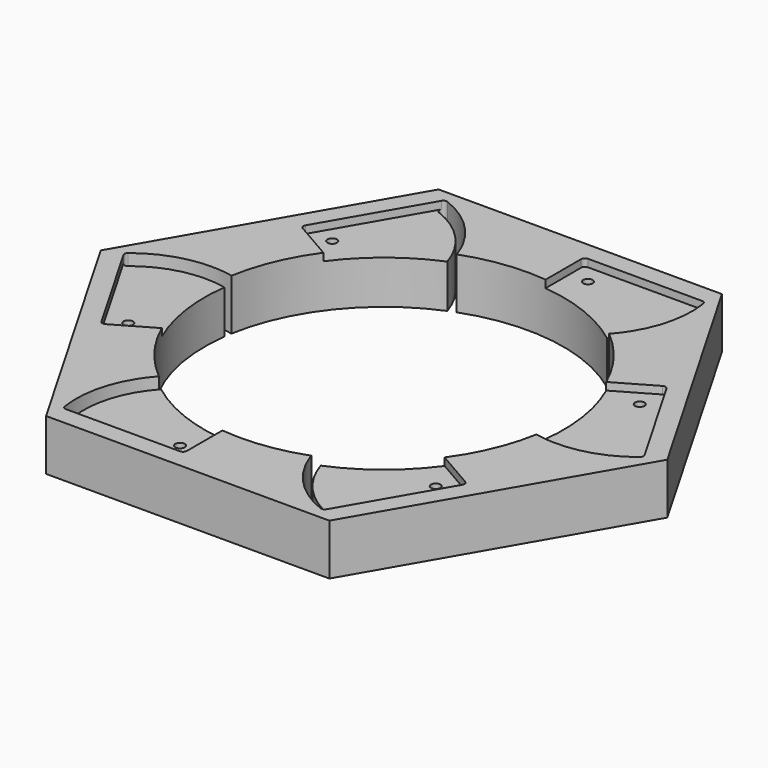
from build123d import *

# Parameters (mm, degrees)
F0_R          = 95
F1_DEPTH      = 25
F1_DEPTH_BACK = 2
F4_DEPTH      = 25
F4_DEPTH_BACK = 2
F5_COUNT      = 6
F8_DEPTH      = 10
F8_DEPTH_BACK = 35
F9_COUNT      = 6
F11_D         = 5
F11_DEPTH     = 13
F11_START     = 2
F11_TIP       = 1.5021515476


with BuildPart() as f1:
    # F0 (on Top) → F1 (new body, two sides)
    with BuildSketch(Plane.XY) as f1_sk:
        Polygon((75, 129.9038105677), (-75, 129.9038105677), (-150, 0), (-75, -129.9038105677), (75, -129.9038105677), (150, 0), align=None)
        Circle(F0_R, mode=Mode.SUBTRACT)
    extrude(amount=-F1_DEPTH)
    extrude(f1_sk.sketch, amount=F1_DEPTH_BACK)


with BuildPart() as f4:
    # F2 (on Top) → F4 (new body, two sides)
    with BuildSketch(Plane.XY) as f4_sk:
        with BuildLine():
            Line((-67.7266746593, 122.6939584625), (-97.9230484541, 70.3923048454))
            ThreePointArc((-97.9230484541, 70.3923048454), (-98.1228492991, 68.8746667552), (-97.1909976466, 67.6602540378))
            Line((-97.1909976466, 67.6602540378), (-68.1009575861, 50.8651115782))
            ThreePointArc((-68.1009575861, 50.8651115782), (-51.4015287339, 67.6969928713), (-30.7025049427, 79.2613158498))
            ThreePointArc((-30.7025049427, 79.2613158498), (-31.770388613, 85.1096644737), (-33.4632679534, 90.8085868892))
            ThreePointArc((-33.4632679534, 90.8085868892), (-34.9064435535, 94.4392315422), (-36.6037204033, 97.9582637535))
            ThreePointArc((-36.6037204033, 97.9582637535), (-48.6270197595, 113.3426973797), (-65.2675230757, 123.5571075336))
            ThreePointArc((-65.2675230757, 123.5571075336), (-66.656996648, 123.5810891624), (-67.7266746593, 122.6939584625))
        make_face()
    extrude(amount=F4_DEPTH)
    extrude(f4_sk.sketch, amount=-F4_DEPTH_BACK)


with BuildPart() as f5_1:
    # F5: instance of F4
    add(f4.part.rotate(Axis((0, 0, -0.1854561269), (0, 0, 1)), 1 * 360 / F5_COUNT))


with BuildPart() as f5_2:
    # F5: instance of F4
    add(f4.part.rotate(Axis((0, 0, -0.1854561269), (0, 0, 1)), 2 * 360 / F5_COUNT))


with BuildPart() as f5_3:
    # F5: instance of F4
    add(f4.part.rotate(Axis((0, 0, -0.1854561269), (0, 0, 1)), 3 * 360 / F5_COUNT))


with BuildPart() as f5_4:
    # F5: instance of F4
    add(f4.part.rotate(Axis((0, 0, -0.1854561269), (0, 0, 1)), 4 * 360 / F5_COUNT))


with BuildPart() as f5_5:
    # F5: instance of F4
    add(f4.part.rotate(Axis((0, 0, -0.1854561269), (0, 0, 1)), 5 * 360 / F5_COUNT))


with BuildPart() as f1_1:
    add(f1.part)

    # F6: cut F5_1, F4, F5_5, F5_4, F5_3, F5_2
    add(f5_1.part, mode=Mode.SUBTRACT)
    add(f4.part, mode=Mode.SUBTRACT)
    add(f5_5.part, mode=Mode.SUBTRACT)
    add(f5_4.part, mode=Mode.SUBTRACT)
    add(f5_3.part, mode=Mode.SUBTRACT)
    add(f5_2.part, mode=Mode.SUBTRACT)


with BuildPart() as f8:
    # F7 (on face) → F8 (new body, two sides)
    with BuildSketch(Plane.XY) as f8_sk:
        with BuildLine():
            ThreePointArc((-66.7217246277, 119.8308093913), (-44.7195832857, 103.2599332678), (-34.5435296861, 77.6643068393))
            ThreePointArc((-34.5435296861, 77.6643068393), (-32.6327882373, 78.4863117484), (-30.7025049427, 79.2613158498))
            ThreePointArc((-30.7025049427, 79.2613158498), (-41.9019572207, 106.1559598637), (-65.2675230757, 123.5571075336))
            ThreePointArc((-65.2675230757, 123.5571075336), (-66.656996648, 123.5810891624), (-67.7266746593, 122.6939584625))
            ThreePointArc((-67.7266746593, 122.6939584625), (-67.8817545517, 121.0315856662), (-66.7217246277, 119.8308093913))
        make_face()
    extrude(amount=F8_DEPTH)
    extrude(f8_sk.sketch, amount=-F8_DEPTH_BACK)


with BuildPart() as f9_1:
    # F9: instance of F8
    add(f8.part.rotate(Axis((0, 0, -0.1854561269), (0, 0, 1)), 1 * 360 / F9_COUNT))


with BuildPart() as f9_2:
    # F9: instance of F8
    add(f8.part.rotate(Axis((0, 0, -0.1854561269), (0, 0, 1)), 2 * 360 / F9_COUNT))


with BuildPart() as f9_3:
    # F9: instance of F8
    add(f8.part.rotate(Axis((0, 0, -0.1854561269), (0, 0, 1)), 3 * 360 / F9_COUNT))


with BuildPart() as f9_4:
    # F9: instance of F8
    add(f8.part.rotate(Axis((0, 0, -0.1854561269), (0, 0, 1)), 4 * 360 / F9_COUNT))


with BuildPart() as f9_5:
    # F9: instance of F8
    add(f8.part.rotate(Axis((0, 0, -0.1854561269), (0, 0, 1)), 5 * 360 / F9_COUNT))


with BuildPart() as f1_2:
    add(f1_1.part)

    # F10: cut F8, F9_5, F9_4, F9_3, F9_2, F9_1
    add(f8.part, mode=Mode.SUBTRACT)
    add(f9_5.part, mode=Mode.SUBTRACT)
    add(f9_4.part, mode=Mode.SUBTRACT)
    add(f9_3.part, mode=Mode.SUBTRACT)
    add(f9_2.part, mode=Mode.SUBTRACT)
    add(f9_1.part, mode=Mode.SUBTRACT)

    # F11
    # its depths count from where the whole tool has entered the part; down to there all is cleared
    with Locations(Plane.XY.offset(-F11_START)):
        with Locations((20, 110), (105.2627944163, 37.6794919243), (85.2627944163, -72.3205080757), (-20, -110), (-105.2627944163, -37.6794919243), (-85.2627944163, 72.3205080757)):
            Hole(F11_D / 2, depth=F11_DEPTH)
            with Locations((0, 0, -(F11_DEPTH + F11_TIP / 2))):  # 118° drill point
                Cone(0, F11_D / 2, F11_TIP, mode=Mode.SUBTRACT)


solid = f1_2.part
